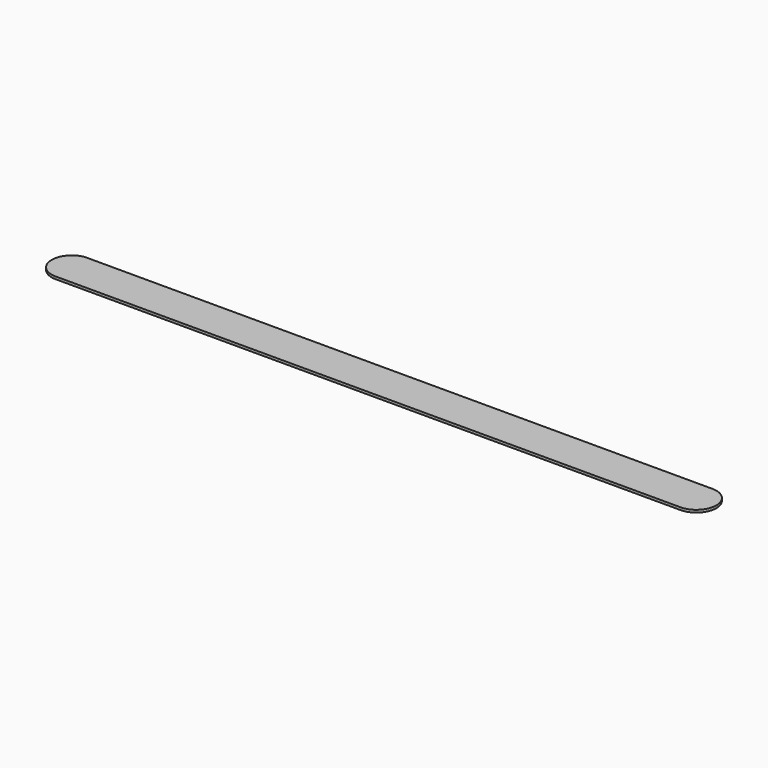
from build123d import *

# Parameters (mm, degrees)
F1_DEPTH = 0.635


with BuildPart() as f1:
    # F0 (on Top) → F1 (new body)
    with BuildSketch(Plane.XY):
        with BuildLine():
            Line((-79.137169, -5.08), (80.591895, -5.08))
            ThreePointArc((80.591895, -5.08), (85.28001, -0.023698), (80.643537, 5.08))
            Line((80.643537, 5.08), (79.719059, 5.08))
            Line((79.719059, 5.08), (-79.428114, 5.08))
            ThreePointArc((-79.428114, 5.08), (-83.821553, -0.129978), (-79.137169, -5.08))
        make_face()
        with BuildLine():
            Line((79.719059, 5.08), (80.643537, 5.08))
            ThreePointArc((80.643537, 5.08), (80.181298, 5.100996), (79.719059, 5.08))
        make_face()
    extrude(amount=F1_DEPTH)


solid = f1.part
